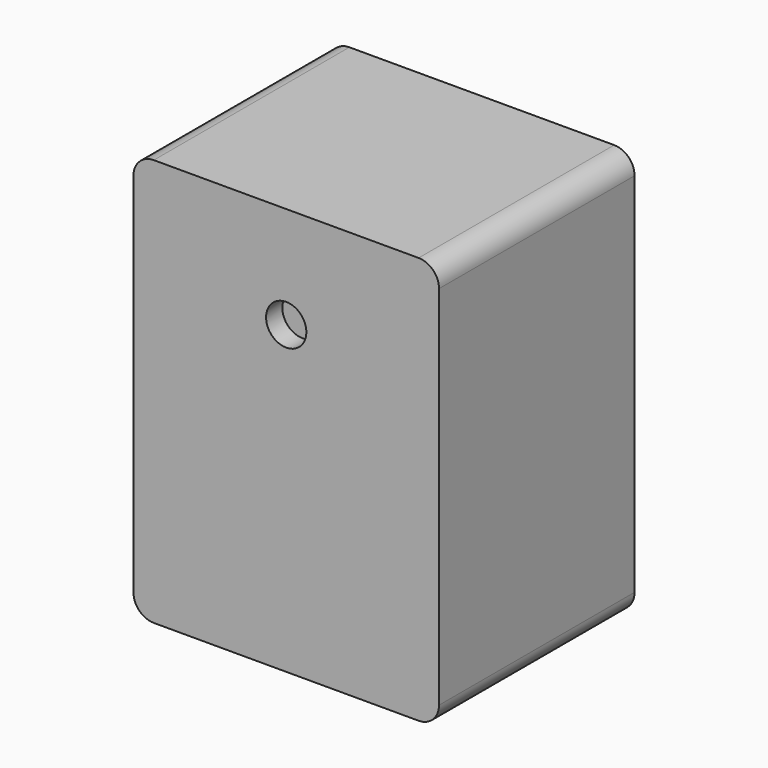
from build123d import *

# Parameters (mm, degrees)
F0_W     = 381
F0_H     = 508
F1_DEPTH = 304.8
F2_R     = 25.4
F3_R     = 18.448016
F4_DEPTH = 25.4
F6_R     = 25.119242
F7_DEPTH = 25.4


with BuildPart() as f1:
    # F0 (on Front) → F1 (new body)
    with BuildSketch(Plane.XZ):
        Rectangle(F0_W, F0_H)
    extrude(amount=F1_DEPTH)

    # F2
    f2_edges = [f1.edges().sort_by_distance(p)[0] for p in [
        (-190.5, -152.4, 254),
        (190.5, -152.4, 254),
        (190.5, -152.4, -254),
        (-190.5, -152.4, -254),
    ]]
    fillet(f2_edges, radius=F2_R)

    # F3 (on face) → F4 (cut)
    with BuildSketch(Plane(origin=(0, 0, -254), x_dir=(1, 0, 0), z_dir=(0, 0, -1))):
        with Locations((0, 152.4)):
            Circle(F3_R)
    extrude(amount=-F4_DEPTH, mode=Mode.SUBTRACT)

    # F6 (on face) → F7 (cut)
    with BuildSketch(Plane.XZ.offset(304.8)):
        with Locations((0, 127)):
            Circle(F6_R)
    extrude(amount=-F7_DEPTH, mode=Mode.SUBTRACT)


solid = f1.part
